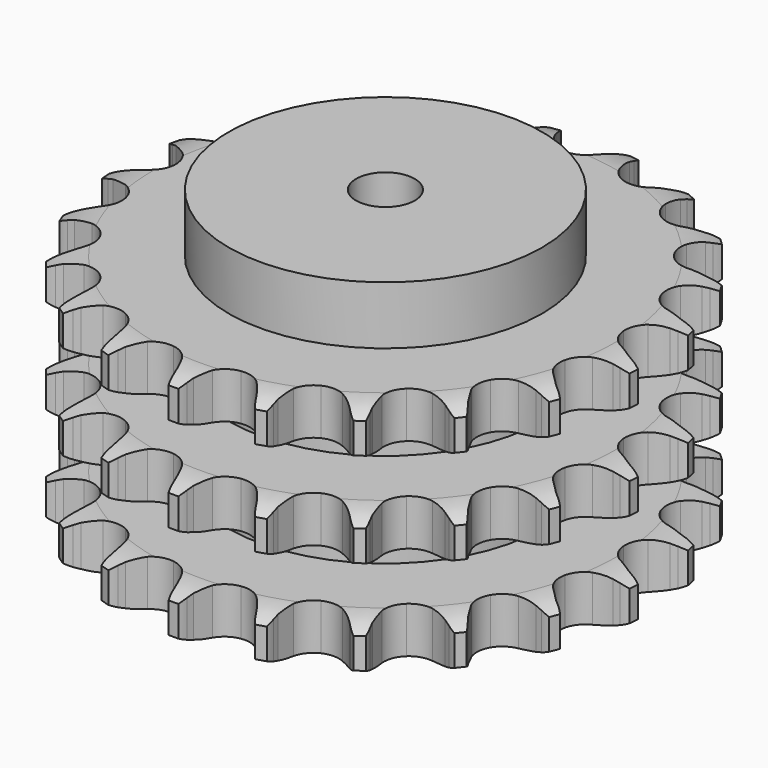
from build123d import *

# Parameters (mm, degrees)
PAD_DEPTH         = 120.3
SKETCH001_R       = 80
PAD001_DEPTH      = 150
SKETCH002_R       = 15
POCKET_DEPTH      = 0.001
POCKET_DEPTH_BACK = 150.001


with BuildPart() as part:
    # Sprocket → Pad (new body)
    with BuildSketch(Plane.XY):
        with BuildLine():
            ThreePointArc((-20.768055, 137.787043), (-17.890143, 134.435212), (-15.777685, 130.555176))
            Line((-15.777685, 130.555176), (-14.551578, 127.598568))
            ThreePointArc((-14.551578, 127.598568), (-12.585412, 123.630303), (-10.107418, 119.959817))
            ThreePointArc((-10.107418, 119.959817), (-5.626192, 116.317095), (0, 115.014492))
            ThreePointArc((0, 115.014492), (5.626192, 116.317095), (10.107418, 119.959817))
            ThreePointArc((10.107418, 119.959817), (12.585412, 123.630303), (14.551578, 127.598568))
            Line((14.551578, 127.598568), (15.777685, 130.555176))
            ThreePointArc((15.777685, 130.555176), (17.890143, 134.435212), (20.768055, 137.787043))
            ThreePointArc((20.768055, 137.787043), (22.530141, 133.735845), (23.405087, 129.40553))
            Line((23.405087, 129.40553), (23.705246, 126.218874))
            ThreePointArc((23.705246, 126.218874), (24.414394, 121.847371), (25.700403, 117.609552))
            ThreePointArc((25.700403, 117.609552), (28.90883, 112.807802), (33.901117, 109.904721))
            ThreePointArc((33.901117, 109.904721), (39.661302, 109.491104), (45.017151, 111.651125))
            Line((45.017151, 111.651125), (51.51543, 117.640568))
            ThreePointArc((51.51543, 117.640568), (52.507205, 118.897189), (53.55854, 120.104422))
            ThreePointArc((53.55854, 120.104422), (56.720808, 123.18942), (60.458833, 125.54406))
            ThreePointArc((60.458833, 125.54406), (60.948522, 121.153461), (60.508215, 116.757635))
            Line((60.508215, 116.757635), (59.855755, 113.62408))
            ThreePointArc((59.855755, 113.62408), (59.244874, 109.237765), (59.22463, 104.809163))
            ThreePointArc((59.22463, 104.809163), (60.875175, 99.275041), (64.78997, 95.029433))
            ThreePointArc((64.78997, 95.029433), (70.172331, 92.936347), (75.926912, 93.421741))
            Line((75.926912, 93.421741), (83.90191, 97.229689))
            ThreePointArc((83.90191, 97.229689), (85.220019, 98.13815), (86.580484, 98.981862))
            ThreePointArc((86.580484, 98.981862), (90.511581, 100.997709), (94.777578, 102.145936))
            ThreePointArc((94.777578, 102.145936), (93.95136, 97.80606), (92.234921, 93.735311))
            Line((92.234921, 93.735311), (90.687817, 90.933287))
            ThreePointArc((90.687817, 90.933287), (88.811187, 86.921905), (87.486489, 82.69602))
            ThreePointArc((87.486489, 82.69602), (87.432494, 76.921256), (89.921951, 71.710363))
            ThreePointArc((89.921951, 71.710363), (94.44824, 68.123789), (100.090233, 66.891425))
            Line((100.090233, 66.891425), (108.833338, 68.179524))
            ThreePointArc((108.833338, 68.179524), (110.360661, 68.659106), (111.909372, 69.06433))
            ThreePointArc((111.909372, 69.06433), (116.260002, 69.831907), (120.674919, 69.671697))
            ThreePointArc((120.674919, 69.671697), (118.606207, 65.768162), (115.766151, 62.384194))
            Line((115.766151, 62.384194), (113.461869, 60.162673))
            ThreePointArc((113.461869, 60.162673), (110.486236, 56.882652), (107.97479, 53.234973))
            ThreePointArc((107.97479, 53.234973), (106.221052, 47.732681), (107.063971, 42.019512))
            ThreePointArc((107.063971, 42.019512), (110.332009, 37.258132), (115.360099, 34.417512))
            Line((115.360099, 34.417512), (124.094445, 33.07131))
            ThreePointArc((124.094445, 33.07131), (125.695273, 33.079399), (127.294622, 33.010129))
            ThreePointArc((127.294622, 33.010129), (131.678213, 32.461234), (135.849764, 31.006822))
            ThreePointArc((135.849764, 31.006822), (132.722372, 27.886474), (129.011049, 25.489968))
            Line((129.011049, 25.489968), (126.154335, 24.046341))
            ThreePointArc((126.154335, 24.046341), (122.344099, 21.789125), (118.869056, 19.043764))
            ThreePointArc((118.869056, 19.043764), (115.571403, 14.302847), (114.692888, 8.595044))
            ThreePointArc((114.692888, 8.595044), (116.412295, 3.081928), (120.379713, -1.114547))
            Line((120.379713, -1.114547), (128.329217, -4.975436))
            ThreePointArc((128.329217, -4.975436), (129.861309, -5.439558), (131.369185, -5.977167))
            ThreePointArc((131.369185, -5.977167), (135.396236, -7.793762), (138.953762, -10.413145))
            ThreePointArc((138.953762, -10.413145), (135.045572, -12.47305), (130.79275, -13.669155))
            Line((130.79275, -13.669155), (127.637436, -14.206613))
            ThreePointArc((127.637436, -14.206613), (123.331151, -15.240461), (119.201286, -16.839566))
            ThreePointArc((119.201286, -16.839566), (114.652728, -20.397857), (112.130839, -25.593132))
            ThreePointArc((112.130839, -25.593132), (112.148837, -31.36812), (114.703061, -36.547574))
            Line((114.703061, -36.547574), (121.161374, -42.580092))
            ThreePointArc((121.161374, -42.580092), (122.488597, -43.475186), (123.77102, -44.433365))
            ThreePointArc((123.77102, -44.433365), (127.083709, -47.356248), (129.711108, -50.907858))
            ThreePointArc((129.711108, -50.907858), (125.36938, -51.724288), (120.952941, -51.613712))
            Line((120.952941, -51.613712), (117.77939, -51.197248))
            ThreePointArc((117.77939, -51.197248), (113.35969, -50.915865), (108.941958, -51.226627))
            ThreePointArc((108.941958, -51.226627), (103.546655, -53.286123), (99.605472, -57.507246))
            ThreePointArc((99.605472, -57.507246), (97.920463, -63.030973), (98.83454, -68.733189))
            Line((98.83454, -68.733189), (103.227812, -76.40132))
            ThreePointArc((103.227812, -76.40132), (104.232236, -77.647854), (105.175257, -78.941464))
            ThreePointArc((105.175257, -78.941464), (107.479237, -82.710924), (108.943052, -86.879185))
            ThreePointArc((108.943052, -86.879185), (104.553569, -86.379596), (100.365933, -84.972165))
            Line((100.365933, -84.972165), (97.456128, -83.638782))
            ThreePointArc((97.456128, -83.638782), (93.315722, -82.067171), (89.002659, -81.061978))
            ThreePointArc((89.002659, -81.061978), (83.240007, -81.439682), (78.229722, -84.311589))
            ThreePointArc((78.229722, -84.311589), (74.991427, -89.093247), (74.184135, -94.811558))
            Line((74.184135, -94.811558), (76.122006, -103.433955))
            ThreePointArc((76.122006, -103.433955), (76.714384, -104.921168), (77.23421, -106.435267))
            ThreePointArc((77.23421, -106.435267), (78.324764, -110.716371), (78.494929, -115.130915))
            ThreePointArc((78.494929, -115.130915), (74.447714, -113.359699), (70.860971, -110.780468))
            Line((70.860971, -110.780468), (68.473462, -108.648644))
            ThreePointArc((68.473462, -108.648644), (64.980243, -105.926449), (61.155083, -103.694616))
            ThreePointArc((61.155083, -103.694616), (55.53712, -102.356968), (49.902918, -103.624477))
            ThreePointArc((49.902918, -103.624477), (45.399072, -107.239195), (42.942145, -112.465505))
            Line((42.942145, -112.465505), (42.252425, -121.27603))
            ThreePointArc((42.252425, -121.27603), (42.380122, -122.871777), (42.430565, -124.47183))
            ThreePointArc((42.430565, -124.47183), (42.210791, -128.884183), (41.072186, -133.152758))
            ThreePointArc((41.072186, -133.152758), (37.726853, -130.267294), (35.0597, -126.745441))
            Line((35.0597, -126.745441), (33.406628, -124.004597))
            ThreePointArc((33.406628, -124.004597), (30.870984, -120.373697), (27.87361, -117.113532))
            ThreePointArc((27.87361, -117.113532), (22.899515, -114.179389), (17.142021, -113.729875))
            ThreePointArc((17.142021, -113.729875), (11.772812, -115.85647), (7.884556, -120.126397))
            Line((7.884556, -120.126397), (4.628531, -128.342197))
            ThreePointArc((4.628531, -128.342197), (4.2802, -129.904689), (3.856778, -131.448524))
            ThreePointArc((3.856778, -131.448524), (2.346204, -135.600069), (0, -139.343394))
            ThreePointArc((0, -139.343394), (-2.346204, -135.600069), (-3.856778, -131.448524))
            Line((-3.856778, -131.448524), (-4.628531, -128.342197))
            ThreePointArc((-4.628531, -128.342197), (-5.981297, -124.125213), (-7.884556, -120.126397))
            ThreePointArc((-7.884556, -120.126397), (-11.772812, -115.85647), (-17.142021, -113.729875))
            ThreePointArc((-17.142021, -113.729875), (-22.899515, -114.179389), (-27.87361, -117.113532))
            Line((-27.87361, -117.113532), (-33.406628, -124.004597))
            ThreePointArc((-33.406628, -124.004597), (-34.200037, -125.394999), (-35.0597, -126.745441))
            ThreePointArc((-35.0597, -126.745441), (-37.726853, -130.267294), (-41.072186, -133.152758))
            ThreePointArc((-41.072186, -133.152758), (-42.210791, -128.884183), (-42.430565, -124.47183))
            Line((-42.430565, -124.47183), (-42.252425, -121.27603))
            ThreePointArc((-42.252425, -121.27603), (-42.302113, -116.84766), (-42.942145, -112.465505))
            ThreePointArc((-42.942145, -112.465505), (-45.399072, -107.239195), (-49.902918, -103.624477))
            ThreePointArc((-49.902918, -103.624477), (-55.53712, -102.356968), (-61.155083, -103.694616))
            Line((-61.155083, -103.694616), (-68.473462, -108.648644))
            ThreePointArc((-68.473462, -108.648644), (-69.64145, -109.743413), (-70.860971, -110.780468))
            ThreePointArc((-70.860971, -110.780468), (-74.447714, -113.359699), (-78.494929, -115.130915))
            ThreePointArc((-78.494929, -115.130915), (-78.324764, -110.716371), (-77.23421, -106.435267))
            Line((-77.23421, -106.435267), (-76.122006, -103.433955))
            ThreePointArc((-76.122006, -103.433955), (-74.864202, -99.18768), (-74.184135, -94.811558))
            ThreePointArc((-74.184135, -94.811558), (-74.991427, -89.093247), (-78.229722, -84.311589))
            ThreePointArc((-78.229722, -84.311589), (-83.240007, -81.439682), (-89.002659, -81.061978))
            Line((-89.002659, -81.061978), (-97.456128, -83.638782))
            ThreePointArc((-97.456128, -83.638782), (-98.894914, -84.340644), (-100.365933, -84.972165))
            ThreePointArc((-100.365933, -84.972165), (-104.553569, -86.379596), (-108.943052, -86.879185))
            ThreePointArc((-108.943052, -86.879185), (-107.479237, -82.710924), (-105.175257, -78.941464))
            Line((-105.175257, -78.941464), (-103.227812, -76.40132))
            ThreePointArc((-103.227812, -76.40132), (-100.774277, -72.714439), (-98.83454, -68.733189))
            ThreePointArc((-98.83454, -68.733189), (-97.920463, -63.030973), (-99.605472, -57.507246))
            ThreePointArc((-99.605472, -57.507246), (-103.546655, -53.286123), (-108.941958, -51.226627))
            Line((-108.941958, -51.226627), (-117.77939, -51.197248))
            ThreePointArc((-117.77939, -51.197248), (-119.361132, -51.443838), (-120.952941, -51.613712))
            ThreePointArc((-120.952941, -51.613712), (-125.36938, -51.724288), (-129.711108, -50.907858))
            ThreePointArc((-129.711108, -50.907858), (-127.083709, -47.356248), (-123.77102, -44.433365))
            Line((-123.77102, -44.433365), (-121.161374, -42.580092))
            ThreePointArc((-121.161374, -42.580092), (-117.730116, -39.7802), (-114.703061, -36.547574))
            ThreePointArc((-114.703061, -36.547574), (-112.148837, -31.36812), (-112.130839, -25.593132))
            ThreePointArc((-112.130839, -25.593132), (-114.652728, -20.397857), (-119.201286, -16.839566))
            Line((-119.201286, -16.839566), (-127.637436, -14.206613))
            ThreePointArc((-127.637436, -14.206613), (-129.221589, -13.976021), (-130.79275, -13.669155))
            ThreePointArc((-130.79275, -13.669155), (-135.045572, -12.47305), (-138.953762, -10.413145))
            ThreePointArc((-138.953762, -10.413145), (-135.396236, -7.793762), (-131.369185, -5.977167))
            Line((-131.369185, -5.977167), (-128.329217, -4.975436))
            ThreePointArc((-128.329217, -4.975436), (-124.225117, -3.311317), (-120.379713, -1.114547))
            ThreePointArc((-120.379713, -1.114547), (-116.412295, 3.081928), (-114.692888, 8.595044))
            ThreePointArc((-114.692888, 8.595044), (-115.571403, 14.302847), (-118.869056, 19.043764))
            Line((-118.869056, 19.043764), (-126.154335, 24.046341))
            ThreePointArc((-126.154335, 24.046341), (-127.600141, 24.733626), (-129.011049, 25.489968))
            ThreePointArc((-129.011049, 25.489968), (-132.722372, 27.886474), (-135.849764, 31.006822))
            ThreePointArc((-135.849764, 31.006822), (-131.678213, 32.461234), (-127.294622, 33.010129))
            Line((-127.294622, 33.010129), (-124.094445, 33.07131))
            ThreePointArc((-124.094445, 33.07131), (-119.682171, 33.451792), (-115.360099, 34.417512))
            ThreePointArc((-115.360099, 34.417512), (-110.332009, 37.258132), (-107.063971, 42.019512))
            ThreePointArc((-107.063971, 42.019512), (-106.221052, 47.732681), (-107.97479, 53.234973))
            Line((-107.97479, 53.234973), (-113.461869, 60.162673))
            ThreePointArc((-113.461869, 60.162673), (-114.64086, 61.245583), (-115.766151, 62.384194))
            ThreePointArc((-115.766151, 62.384194), (-118.606207, 65.768162), (-120.674919, 69.671697))
            ThreePointArc((-120.674919, 69.671697), (-116.260002, 69.831907), (-111.909372, 69.06433))
            Line((-111.909372, 69.06433), (-108.833338, 68.179524))
            ThreePointArc((-108.833338, 68.179524), (-104.50494, 67.242562), (-100.090233, 66.891425))
            ThreePointArc((-100.090233, 66.891425), (-94.44824, 68.123789), (-89.921951, 71.710363))
            ThreePointArc((-89.921951, 71.710363), (-87.432494, 76.921256), (-87.486489, 82.69602))
            Line((-87.486489, 82.69602), (-90.687817, 90.933287))
            ThreePointArc((-90.687817, 90.933287), (-91.495236, 92.3156), (-92.234921, 93.735311))
            ThreePointArc((-92.234921, 93.735311), (-93.95136, 97.80606), (-94.777578, 102.145936))
            ThreePointArc((-94.777578, 102.145936), (-90.511581, 100.997709), (-86.580484, 98.981862))
            Line((-86.580484, 98.981862), (-83.90191, 97.229689))
            ThreePointArc((-83.90191, 97.229689), (-80.041985, 95.058535), (-75.926912, 93.421741))
            ThreePointArc((-75.926912, 93.421741), (-70.172331, 92.936347), (-64.78997, 95.029433))
            ThreePointArc((-64.78997, 95.029433), (-60.875175, 99.275041), (-59.22463, 104.809163))
            Line((-59.22463, 104.809163), (-59.855755, 113.62408))
            ThreePointArc((-59.855755, 113.62408), (-60.219859, 115.182971), (-60.508215, 116.757635))
            ThreePointArc((-60.508215, 116.757635), (-60.948522, 121.153461), (-60.458833, 125.54406))
            ThreePointArc((-60.458833, 125.54406), (-56.720808, 123.18942), (-53.55854, 120.104422))
            Line((-53.55854, 120.104422), (-51.51543, 117.640568))
            ThreePointArc((-51.51543, 117.640568), (-48.466949, 114.42814), (-45.017151, 111.651125))
            ThreePointArc((-45.017151, 111.651125), (-39.661302, 109.491104), (-33.901117, 109.904721))
            ThreePointArc((-33.901117, 109.904721), (-28.90883, 112.807802), (-25.700403, 117.609552))
            Line((-25.700403, 117.609552), (-23.705246, 126.218874))
            ThreePointArc((-23.705246, 126.218874), (-23.593683, 127.81583), (-23.405087, 129.40553))
            ThreePointArc((-23.405087, 129.40553), (-22.530141, 133.735845), (-20.768055, 137.787043))
        make_face()
    extrude(amount=PAD_DEPTH)

    # Sketch → Groove (revolve, cut)
    with BuildSketch(Plane.XZ):
        with BuildLine():
            ThreePointArc((118.329437, 0), (127.047235, 1.013516), (135.3, 4))
            Line((135.3, 4), (135.3, 19.6))
            ThreePointArc((135.3, 19.6), (127.047235, 22.586484), (118.329437, 23.6))
            Line((80, 23.6), (118.329437, 23.6))
            Line((80, 23.6), (80, 48.35))
            Line((80, 48.35), (118.329437, 48.35))
            ThreePointArc((118.329437, 48.35), (127.047235, 49.363516), (135.3, 52.35))
            Line((135.3, 67.95), (135.3, 52.35))
            ThreePointArc((135.3, 67.95), (127.047235, 70.936484), (118.329437, 71.95))
            Line((80, 71.95), (118.329437, 71.95))
            Line((80, 96.7), (80, 71.95))
            Line((118.329437, 96.7), (80, 96.7))
            ThreePointArc((118.329437, 96.7), (127.047235, 97.713516), (135.3, 100.7))
            Line((135.3, 100.7), (135.3, 116.3))
            ThreePointArc((135.3, 116.3), (127.047235, 119.286484), (118.329437, 120.3))
            Line((118.329437, 120.3), (145.3, 120.3))
            Line((145.3, 120.3), (145.3, 0))
            Line((118.329437, 0), (145.3, 0))
        make_face()
    revolve(axis=Axis((0, 0, 0), (0, 0, 1)), mode=Mode.SUBTRACT)

    # Sketch001 → Pad001 (join)
    with BuildSketch(Plane.XY):
        Circle(SKETCH001_R)
    extrude(amount=PAD001_DEPTH)

    # Sketch002 → Pocket (cut, two sides)
    with BuildSketch(Plane.XY) as pocket_sk:
        Circle(SKETCH002_R)
    extrude(amount=-POCKET_DEPTH, mode=Mode.SUBTRACT)
    extrude(pocket_sk.sketch, amount=POCKET_DEPTH_BACK, mode=Mode.SUBTRACT)


solid = part.part
